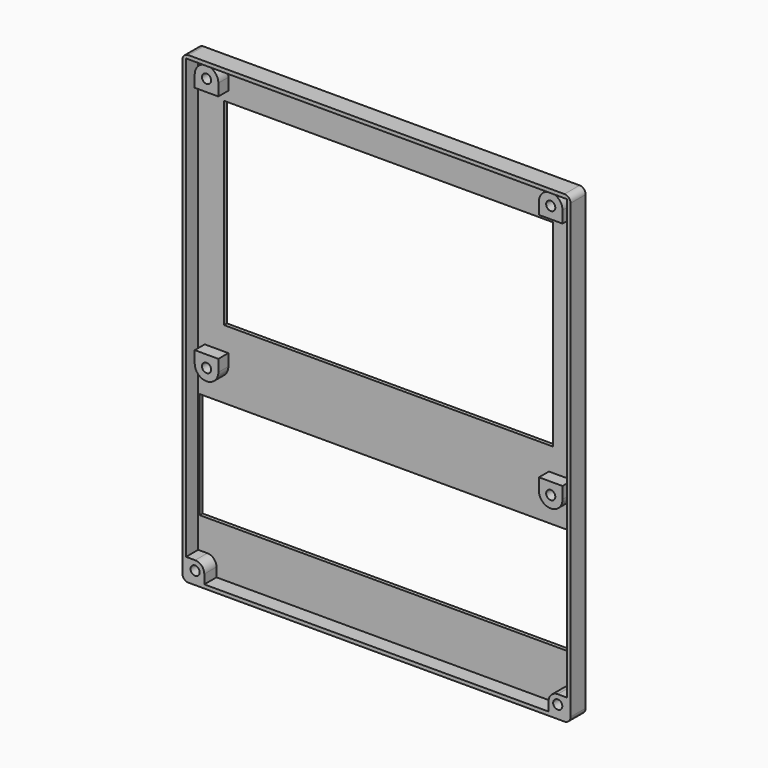
from build123d import *

# Parameters (mm, degrees)
F0_W     = 127.4
F0_H     = 152.4
F0_W_2   = 125
F0_H_2   = 150
F1_DEPTH = 1.2
F2_DEPTH = 6.2
F3_W     = 108
F3_H     = 64.8
F4_DEPTH = 1.2
F3_R     = 1.5
F5_DEPTH = 4.1
F6_R     = 2
F3_W_2   = 124
F3_H_2   = 35
F7_DEPTH = 1.2
F8_DEPTH = 5


with BuildPart() as f1:
    # F0 (on Front) → F1 (new body)
    with BuildSketch(Plane.XZ):
        with Locations((62.5, -75)):
            Rectangle(F0_W, F0_H)
        with Locations((62.5, -75)):
            Rectangle(F0_W_2, F0_H_2, mode=Mode.SUBTRACT)
        with Locations((62.5, -75)):
            Rectangle(F0_W_2, F0_H_2)
    extrude(amount=F1_DEPTH)

    # F0 (on Front) → F2 (join)
    with BuildSketch(Plane.XZ):
        with Locations((62.5, -75)):
            Rectangle(F0_W, F0_H)
        with Locations((62.5, -75)):
            Rectangle(F0_W_2, F0_H_2, mode=Mode.SUBTRACT)
    extrude(amount=F2_DEPTH)

    # F3 (on face) → F4 (cut)
    with BuildSketch(Plane.XZ.offset(1.2)):
        with Locations((62.5, -43.917)):
            Rectangle(F3_W, F3_H)
    extrude(amount=-F4_DEPTH, mode=Mode.SUBTRACT)

    # F3 (on face) → F5 (join)
    with BuildSketch(Plane.XZ.offset(1.2)):
        with BuildLine():
            Line((2.15, -4.27), (2.15, -8.147))
            Line((2.15, -8.147), (9.897, -8.147))
            Line((9.897, -8.147), (9.897, -4.27))
            ThreePointArc((9.897, -4.27), (8.763503, -1.533497), (6.027, -0.4))
            Line((6.027, -0.4), (6.02, -0.4))
            ThreePointArc((6.02, -0.4), (3.283497, -1.533497), (2.15, -4.27))
        make_face()
        with Locations((6.0235, -4.2735)):
            Circle(F3_R, mode=Mode.SUBTRACT)
        with BuildLine():
            Line((115.103, -4.27), (115.103, -8.147))
            Line((115.103, -8.147), (122.85, -8.147))
            Line((122.85, -8.147), (122.85, -4.27))
            ThreePointArc((122.85, -4.27), (121.716503, -1.533497), (118.98, -0.4))
            Line((118.98, -0.4), (118.973, -0.4))
            ThreePointArc((118.973, -0.4), (116.236497, -1.533497), (115.103, -4.27))
        make_face()
        with Locations((118.9765, -4.2735)):
            Circle(F3_R, mode=Mode.SUBTRACT)
        with BuildLine():
            Line((122.85, -83.947), (115.103, -83.947))
            Line((115.103, -83.947), (115.103, -87.824))
            ThreePointArc((115.103, -87.824), (116.236497, -90.560503), (118.973, -91.694))
            Line((118.973, -91.694), (118.98, -91.694))
            ThreePointArc((118.98, -91.694), (121.716503, -90.560503), (122.85, -87.824))
            Line((122.85, -87.824), (122.85, -83.947))
        make_face()
        with Locations((118.9765, -87.8205)):
            Circle(F3_R, mode=Mode.SUBTRACT)
        with BuildLine():
            Line((9.897, -83.947), (2.15, -83.947))
            Line((2.15, -83.947), (2.15, -87.824))
            ThreePointArc((2.15, -87.824), (3.283497, -90.560503), (6.02, -91.694))
            Line((6.02, -91.694), (6.027, -91.694))
            ThreePointArc((6.027, -91.694), (8.763503, -90.560503), (9.897, -87.824))
            Line((9.897, -87.824), (9.897, -83.947))
        make_face()
        with Locations((6.0235, -87.8205)):
            Circle(F3_R, mode=Mode.SUBTRACT)
    extrude(amount=F5_DEPTH)

    # F6
    f6_edges = [f1.edges().sort_by_distance(p)[0] for p in [
        (126.2, -3.1, -151.2),
        (126.2, -3.1, 1.2),
        (-1.2, -3.1, 1.2),
        (-1.2, -3.1, -151.2),
    ]]
    fillet(f6_edges, radius=F6_R)

    # F3 (on face) → F7 (cut)
    with BuildSketch(Plane.XZ.offset(1.2)):
        with Locations((62.5, -116.33127)):
            Rectangle(F3_W_2, F3_H_2)
    extrude(amount=-F7_DEPTH, mode=Mode.SUBTRACT)

    # F3 (on face) → F8 (join)
    with BuildSketch(Plane.XZ.offset(1.2)):
        with BuildLine():
            Line((125, -150), (125, -144))
            Line((125, -144), (122, -144))
            ThreePointArc((122, -144), (119.87868, -144.87868), (119, -147))
            Line((119, -147), (119, -150))
            Line((119, -150), (125, -150))
        make_face()
        with Locations((122, -147)):
            Circle(F3_R, mode=Mode.SUBTRACT)
        with BuildLine():
            Line((0, -144), (0, -150))
            Line((0, -150), (6, -150))
            Line((6, -150), (6, -147))
            ThreePointArc((6, -147), (5.12132, -144.87868), (3, -144))
            Line((3, -144), (0, -144))
        make_face()
        with Locations((3, -147)):
            Circle(F3_R, mode=Mode.SUBTRACT)
    extrude(amount=F8_DEPTH)


solid = f1.part
